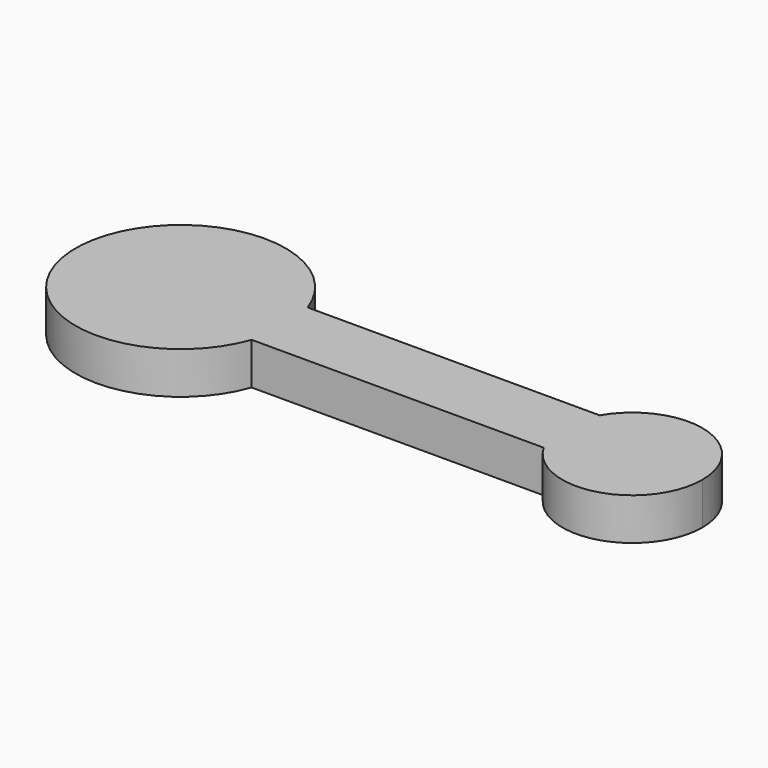
from build123d import *

# Parameters (mm, degrees)
F1_DEPTH = 12


with BuildPart() as f1:
    # F0 (on Top) → F1 (new body)
    with BuildSketch(Plane.XY):
        with BuildLine():
            Line((-64.5, 10), (-64.5, -10))
            Line((-64.5, -10), (-36.2157287525, -10))
            ThreePointArc((-36.2157287525, -10), (-34.9320432104, -5.0730593618), (-34.5, 0))
            ThreePointArc((-34.5, 0), (-34.9320432104, 5.0730593618), (-36.2157287525, 10))
            Line((-36.2157287525, 10), (-64.5, 10))
        make_face()
        with BuildLine():
            Line((-36.2157287525, -10), (-64.5, -10))
            Line((-64.5, -10), (-64.5, 10))
            Line((-64.5, 10), (-36.2157287525, 10))
            ThreePointArc((-36.2157287525, 10), (-94.5, 0), (-36.2157287525, -10))
        make_face()
        with BuildLine():
            ThreePointArc((-34.5, 0), (-34.9320432104, -5.0730593618), (-36.2157287525, -10))
            Line((-36.2157287525, -10), (47.1794919243, -10))
            ThreePointArc((47.1794919243, -10), (44.5, 0), (47.1794919243, 10))
            Line((47.1794919243, 10), (-36.2157287525, 10))
            ThreePointArc((-36.2157287525, 10), (-34.9320432104, 5.0730593618), (-34.5, 0))
        make_face()
        with BuildLine():
            ThreePointArc((47.1794919243, 10), (44.5, 0), (47.1794919243, -10))
            Line((47.1794919243, -10), (64.5, -10))
            Line((64.5, -10), (64.5, 10))
            Line((64.5, 10), (47.1794919243, 10))
        make_face()
        with BuildLine():
            Line((64.5, -10), (47.1794919243, -10))
            ThreePointArc((47.1794919243, -10), (69.6763809021, -19.3185165258), (84.5, 0))
            ThreePointArc((84.5, 0), (69.6763809021, 19.3185165258), (47.1794919243, 10))
            Line((47.1794919243, 10), (64.5, 10))
            Line((64.5, 10), (64.5, -10))
        make_face()
    extrude(amount=F1_DEPTH)


solid = f1.part
